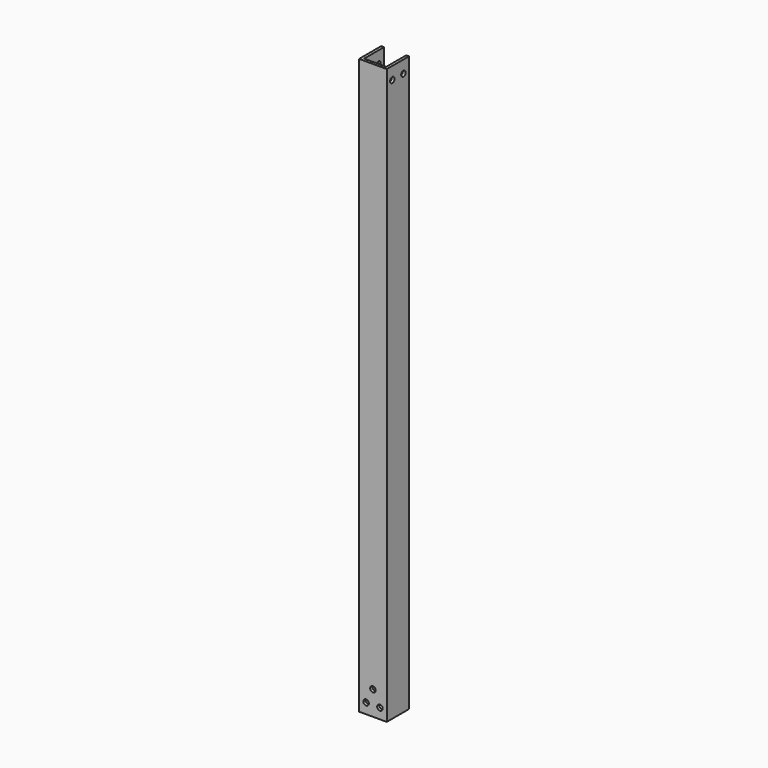
from build123d import *

# Parameters (mm, degrees)
F1_DEPTH = 415
F3_D     = 8
F5_D     = 8


with BuildPart() as f1:
    # F0 (on Top) → F1 (new body, symmetric)
    with BuildSketch(Plane.XY):
        Polygon((-20, -20), (20, -20), (20, 20), (16, 20), (16, -16), (-16, -16), (-16, 20), (-20, 20), align=None)
    extrude(amount=F1_DEPTH, both=True)

    # F3 (through all)
    with Locations(Plane.YZ.offset(20)):
        with Locations((-10, 397), (10, 397)):
            Hole(F3_D / 2)

    # F5 (through all)
    with Locations(Plane.XZ.offset(20)):
        with Locations((0, -380), (10.1231555268, -400), (-9.8768444732, -400)):
            Hole(F5_D / 2)


solid = f1.part
